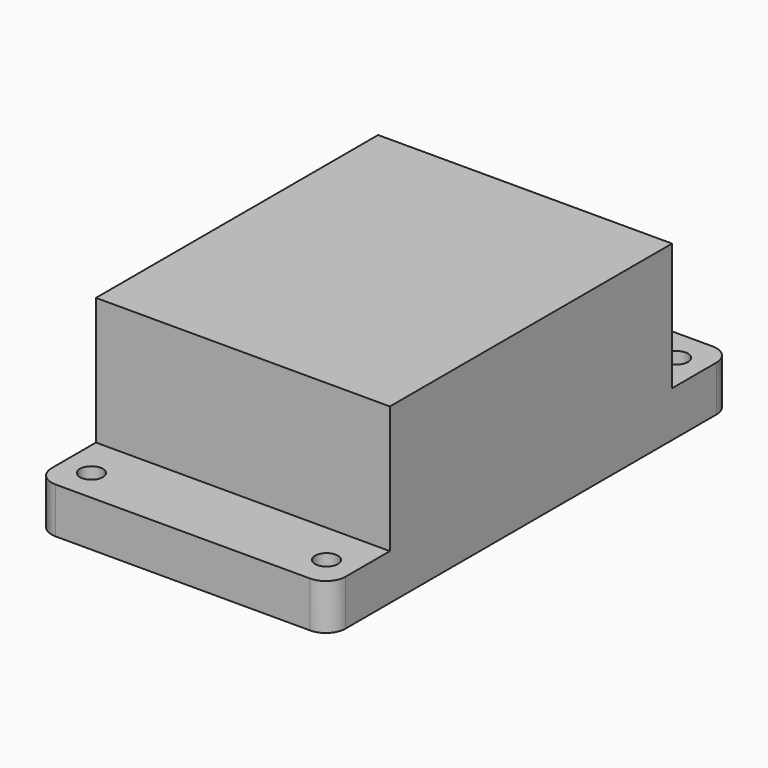
from build123d import *

# Parameters (mm, degrees)
F0_R     = 1.75
F1_DEPTH = 7
F2_W     = 45
F2_H     = 54
F3_DEPTH = 19.5


with BuildPart() as f1:
    # F0 (on Top) → F1 (new body)
    with BuildSketch(Plane.XY):
        with BuildLine():
            ThreePointArc((19.5, -38.5), (21.62132, -37.62132), (22.5, -35.5))
            Line((22.5, -35.5), (22.5, 0))
            Line((22.5, 0), (22.5, 35.5))
            ThreePointArc((22.5, 35.5), (21.62132, 37.62132), (19.5, 38.5))
            Line((19.5, 38.5), (0, 38.5))
            Line((0, 38.5), (-19.5, 38.5))
            ThreePointArc((-19.5, 38.5), (-21.62132, 37.62132), (-22.5, 35.5))
            Line((-22.5, 35.5), (-22.5, 0))
            Line((-22.5, 0), (-22.5, -35.5))
            ThreePointArc((-22.5, -35.5), (-21.62132, -37.62132), (-19.5, -38.5))
            Line((-19.5, -38.5), (0, -38.5))
            Line((0, -38.5), (19.5, -38.5))
        make_face()
        with Locations((-18, -33.5)):
            Circle(F0_R, mode=Mode.SUBTRACT)
        with Locations((18, -33.5)):
            Circle(F0_R, mode=Mode.SUBTRACT)
        with Locations((-18, 33.5)):
            Circle(F0_R, mode=Mode.SUBTRACT)
        with Locations((18, 33.5)):
            Circle(F0_R, mode=Mode.SUBTRACT)
    extrude(amount=F1_DEPTH)

    # F2 (on face) → F3 (join)
    with BuildSketch(Plane.XY.offset(7)):
        Rectangle(F2_W, F2_H)
    extrude(amount=F3_DEPTH)


solid = f1.part
